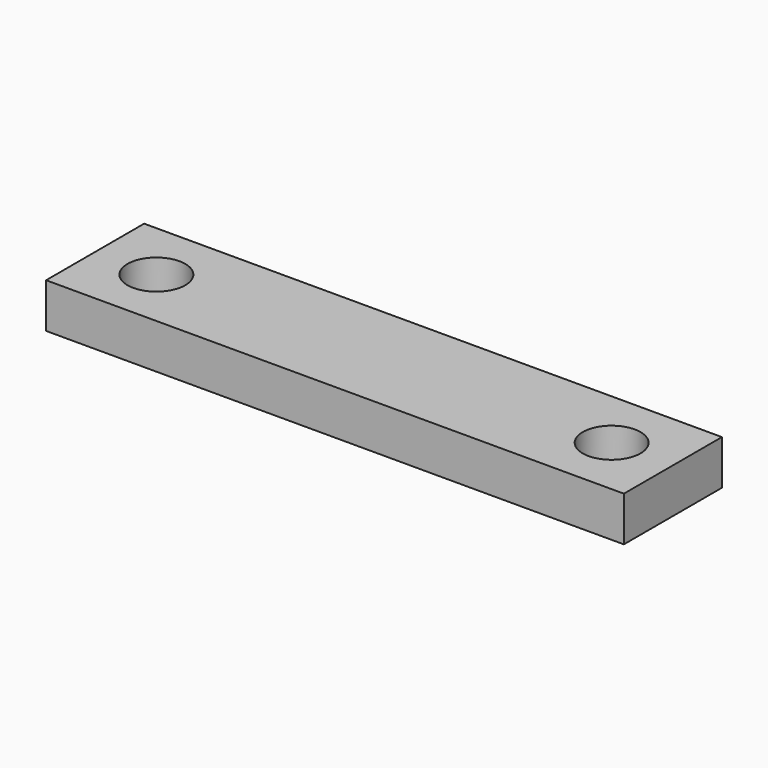
from build123d import *

# Parameters (mm, degrees)
CYLINDER003_R     = 1.65
CYLINDER003_DEPTH = 2.55
BOX004_W          = 33
BOX004_H          = 2.55
BOX004_DEPTH      = 7


with BuildPart() as hole001:
    # Cylinder003 → Cylinder003 (new body)
    with BuildSketch(Plane(origin=(3.5, -22.5, 9), x_dir=(1, 0, 0), z_dir=(0, 0, 1))):
        Circle(CYLINDER003_R)
    extrude(amount=CYLINDER003_DEPTH)


with BuildPart() as hole005:
    # Clone012 base: copy of hole001
    add(hole001.part)


with BuildPart() as hole005_1:
    # Clone012 placement: moved
    add(hole005.part.moved(Location((26, 0, 0))))


with BuildPart() as fusion002:
    # Fusion002 base: copy of hole001
    add(hole001.part)

    # Fusion002: union hole005
    add(hole005_1.part)


with BuildPart() as obj1:
    # Box004 → Box004 (new body)
    with BuildSketch(Plane(origin=(0, -19, 9), x_dir=(1, 0, 0), z_dir=(0, -1, 0))):
        with Locations((16.5, 1.275)):
            Rectangle(BOX004_W, BOX004_H)
    extrude(amount=BOX004_DEPTH)

    # Cut002: cut Fusion002
    add(fusion002.part, mode=Mode.SUBTRACT)


solid = obj1.part
